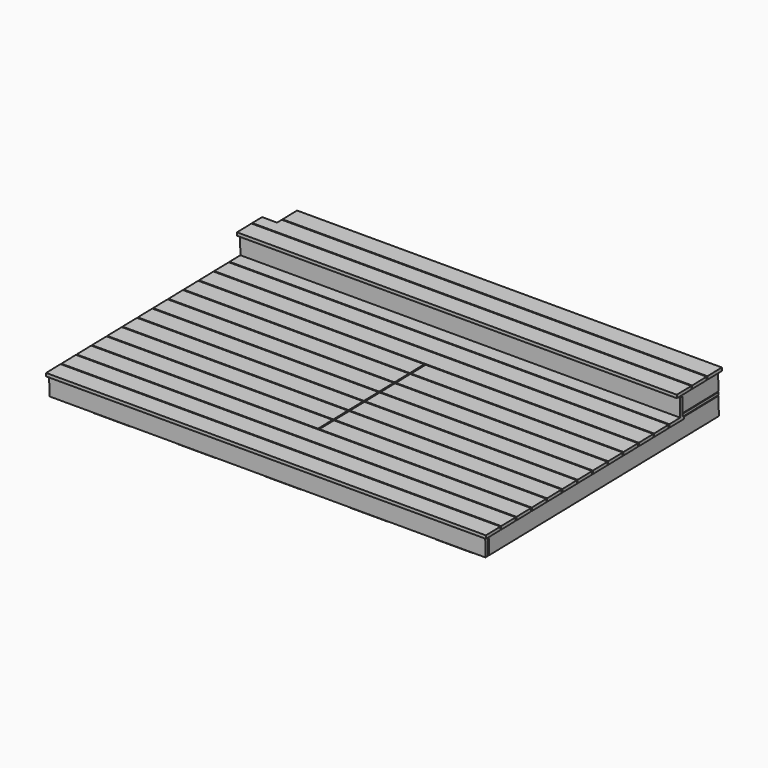
from build123d import *

# Parameters (mm, degrees)
F2_W      = 3400
F2_H      = 145
F3_DEPTH  = 25
F2_W_2    = 3520
F4_W      = 68
F4_H      = 396
F5_DEPTH  = 44
F6_W      = 3245
F6_H      = 68
F7_DEPTH  = 44
F8_W      = 68
F8_H      = 396
F9_DEPTH  = 44
F10_W     = 3245
F10_H     = 68
F11_DEPTH = 44
F12_W     = 3520
F12_H     = 145
F13_DEPTH = 25
F14_W     = 44
F14_H     = 2310
F15_DEPTH = 68
F14_H_2   = 839
F14_H_3   = 396
F16_W     = 3245
F16_H     = 44
F17_DEPTH = 68
F16_W_2   = 1699.5
F18_W     = 3520
F18_H     = 145
F19_DEPTH = 25
F18_W_2   = 1699.5
F20_W     = 44
F20_H     = 1263
F21_DEPTH = 68
F22_W     = 1501.5
F22_H     = 25
F23_DEPTH = 145
F22_W_2   = 25
F22_H_2   = 1015
F24_W     = 1809.5
F24_H     = 145
F25_DEPTH = 25
F26_W     = 68
F26_H     = 1015
F27_DEPTH = 44
F28_W     = 3490
F28_H     = 145
F29_DEPTH = 25
F31_DEPTH = 25
F32_W     = 300
F32_H     = 300
F33_DEPTH = 42
F32_H_2   = 150


with BuildPart() as f3:
    # F2 (on line) → F3 (new body)
    with BuildSketch(Plane(origin=(0, 0, 0), x_dir=(1, 0, 0), z_dir=(0, 0.0200699388, -0.9997985785))):
        with Locations((1820, 72.5)):
            Rectangle(F2_W, F2_H)
    extrude(amount=F3_DEPTH)


with BuildPart() as f3b:
    # F2 (on line) → F3, piece 2 (new body)
    with BuildSketch(Plane(origin=(0, 0, 0), x_dir=(1, 0, 0), z_dir=(0, 0.0200699388, -0.9997985785))):
        Polygon((120, 153), (3520, 153), (3520, 298), (0, 298), (0, 200), (120, 200), align=None)
    extrude(amount=F3_DEPTH)


with BuildPart() as f3c:
    # F2 (on line) → F3, piece 3 (new body)
    with BuildSketch(Plane(origin=(0, 0, 0), x_dir=(1, 0, 0), z_dir=(0, 0.0200699388, -0.9997985785))):
        with Locations((1760, 378.5)):
            Rectangle(F2_W_2, F2_H)
    extrude(amount=F3_DEPTH)


with BuildPart() as f5:
    # F4 (on face) → F5 (new body)
    with BuildSketch(Plane(origin=(0, 0.5017484696, -24.9949644623), x_dir=(1, 0, 0), z_dir=(0, 0.0200699388, -0.9997985785))):
        with Locations((3431, 198)):
            Rectangle(F4_W, F4_H)
    extrude(amount=F5_DEPTH)


with BuildPart() as f5b:
    # F4 (on face) → F5, piece 2 (new body)
    with BuildSketch(Plane(origin=(0, 0.5017484696, -24.9949644623), x_dir=(1, 0, 0), z_dir=(0, 0.0200699388, -0.9997985785))):
        with Locations((2901.5, 198)):
            Rectangle(F4_W, F4_H)
    extrude(amount=F5_DEPTH)


with BuildPart() as f5c:
    # F4 (on face) → F5, piece 3 (new body)
    with BuildSketch(Plane(origin=(0, 0.5017484696, -24.9949644623), x_dir=(1, 0, 0), z_dir=(0, 0.0200699388, -0.9997985785))):
        with Locations((2372, 198)):
            Rectangle(F4_W, F4_H)
    extrude(amount=F5_DEPTH)


with BuildPart() as f5d:
    # F4 (on face) → F5, piece 4 (new body)
    with BuildSketch(Plane(origin=(0, 0.5017484696, -24.9949644623), x_dir=(1, 0, 0), z_dir=(0, 0.0200699388, -0.9997985785))):
        with Locations((1842.5, 198)):
            Rectangle(F4_W, F4_H)
    extrude(amount=F5_DEPTH)


with BuildPart() as f5e:
    # F4 (on face) → F5, piece 5 (new body)
    with BuildSketch(Plane(origin=(0, 0.5017484696, -24.9949644623), x_dir=(1, 0, 0), z_dir=(0, 0.0200699388, -0.9997985785))):
        with Locations((1313, 198)):
            Rectangle(F4_W, F4_H)
    extrude(amount=F5_DEPTH)


with BuildPart() as f5f:
    # F4 (on face) → F5, piece 6 (new body)
    with BuildSketch(Plane(origin=(0, 0.5017484696, -24.9949644623), x_dir=(1, 0, 0), z_dir=(0, 0.0200699388, -0.9997985785))):
        with Locations((783.5, 198)):
            Rectangle(F4_W, F4_H)
    extrude(amount=F5_DEPTH)


with BuildPart() as f5g:
    # F4 (on face) → F5, piece 7 (new body)
    with BuildSketch(Plane(origin=(0, 0.5017484696, -24.9949644623), x_dir=(1, 0, 0), z_dir=(0, 0.0200699388, -0.9997985785))):
        with Locations((254, 198)):
            Rectangle(F4_W, F4_H)
    extrude(amount=F5_DEPTH)


with BuildPart() as f7:
    # F6 (on face) → F7 (new body)
    with BuildSketch(Plane(origin=(0, 1.3848257761, -68.986101916), x_dir=(1, 0, 0), z_dir=(0, 0.0200699388, -0.9997985785))):
        with Locations((1842.5, 64)):
            Rectangle(F6_W, F6_H)
    extrude(amount=F7_DEPTH)


with BuildPart() as f7b:
    # F6 (on face) → F7, piece 2 (new body)
    with BuildSketch(Plane(origin=(0, 1.3848257761, -68.986101916), x_dir=(1, 0, 0), z_dir=(0, 0.0200699388, -0.9997985785))):
        with Locations((1842.5, 342)):
            Rectangle(F6_W, F6_H)
    extrude(amount=F7_DEPTH)


with BuildPart() as f9:
    # F8 (on face) → F9 (new body)
    with BuildSketch(Plane(origin=(0, 2.2679030825, -112.9772393697), x_dir=(1, 0, 0), z_dir=(0, 0.0200699388, -0.9997985785))):
        with Locations((2901.5, 198)):
            Rectangle(F8_W, F8_H)
    extrude(amount=F9_DEPTH)


with BuildPart() as f9b:
    # F8 (on face) → F9, piece 2 (new body)
    with BuildSketch(Plane(origin=(0, 2.2679030825, -112.9772393697), x_dir=(1, 0, 0), z_dir=(0, 0.0200699388, -0.9997985785))):
        with Locations((2372, 198)):
            Rectangle(F8_W, F8_H)
    extrude(amount=F9_DEPTH)


with BuildPart() as f9c:
    # F8 (on face) → F9, piece 3 (new body)
    with BuildSketch(Plane(origin=(0, 2.2679030825, -112.9772393697), x_dir=(1, 0, 0), z_dir=(0, 0.0200699388, -0.9997985785))):
        with Locations((1842.5, 198)):
            Rectangle(F8_W, F8_H)
    extrude(amount=F9_DEPTH)


with BuildPart() as f9d:
    # F8 (on face) → F9, piece 4 (new body)
    with BuildSketch(Plane(origin=(0, 2.2679030825, -112.9772393697), x_dir=(1, 0, 0), z_dir=(0, 0.0200699388, -0.9997985785))):
        with Locations((1313, 198)):
            Rectangle(F8_W, F8_H)
    extrude(amount=F9_DEPTH)


with BuildPart() as f9e:
    # F8 (on face) → F9, piece 5 (new body)
    with BuildSketch(Plane(origin=(0, 2.2679030825, -112.9772393697), x_dir=(1, 0, 0), z_dir=(0, 0.0200699388, -0.9997985785))):
        with Locations((783.5, 198)):
            Rectangle(F8_W, F8_H)
    extrude(amount=F9_DEPTH)


with BuildPart() as f9f:
    # F8 (on face) → F9, piece 6 (new body)
    with BuildSketch(Plane(origin=(0, 2.2679030825, -112.9772393697), x_dir=(1, 0, 0), z_dir=(0, 0.0200699388, -0.9997985785))):
        with Locations((254, 198)):
            Rectangle(F8_W, F8_H)
    extrude(amount=F9_DEPTH)


with BuildPart() as f9g:
    # F8 (on face) → F9, piece 7 (new body)
    with BuildSketch(Plane(origin=(0, 2.2679030825, -112.9772393697), x_dir=(1, 0, 0), z_dir=(0, 0.0200699388, -0.9997985785))):
        with Locations((3431, 198)):
            Rectangle(F8_W, F8_H)
    extrude(amount=F9_DEPTH)


with BuildPart() as f11:
    # F10 (on face) → F11 (new body)
    with BuildSketch(Plane(origin=(0, 3.150980389, -156.9683768234), x_dir=(1, 0, 0), z_dir=(0, 0.0200699388, -0.9997985785))):
        with Locations((1842.5, 342)):
            Rectangle(F10_W, F10_H)
    extrude(amount=F11_DEPTH)


with BuildPart() as f11b:
    # F10 (on face) → F11, piece 2 (new body)
    with BuildSketch(Plane(origin=(0, 3.150980389, -156.9683768234), x_dir=(1, 0, 0), z_dir=(0, 0.0200699388, -0.9997985785))):
        with Locations((1842.5, 64)):
            Rectangle(F10_W, F10_H)
    extrude(amount=F11_DEPTH)


with BuildPart() as f13:
    # F12 (on face) → F13 (new body)
    with BuildSketch(Plane(origin=(0, -395.9202370833, -7.9476957583), x_dir=(1, 0, 0), z_dir=(0, -0.9997985785, -0.0200699388))):
        with Locations((1760, -107.5)):
            Rectangle(F12_W, F12_H)
    extrude(amount=F13_DEPTH)


with BuildPart() as f15:
    # F14 (on face) → F15 (new body)
    with BuildSketch(Plane(origin=(0, 4.0340576955, -200.9595142772), x_dir=(1, 0, 0), z_dir=(0, 0.0200699388, -0.9997985785))):
        with Locations((3443, 1155)):
            Rectangle(F14_W, F14_H)
    extrude(amount=F15_DEPTH)


with BuildPart() as f15b:
    # F14 (on face) → F15, piece 2 (new body)
    with BuildSketch(Plane(origin=(0, 4.0340576955, -200.9595142772), x_dir=(1, 0, 0), z_dir=(0, 0.0200699388, -0.9997985785))):
        with Locations((2909.5, 1155)):
            Rectangle(F14_W, F14_H)
    extrude(amount=F15_DEPTH)


with BuildPart() as f15c:
    # F14 (on face) → F15, piece 3 (new body)
    with BuildSketch(Plane(origin=(0, 4.0340576955, -200.9595142772), x_dir=(1, 0, 0), z_dir=(0, 0.0200699388, -0.9997985785))):
        with Locations((2376, 1155)):
            Rectangle(F14_W, F14_H)
    extrude(amount=F15_DEPTH)


with BuildPart() as f15d:
    # F14 (on face) → F15, piece 4 (new body)
    with BuildSketch(Plane(origin=(0, 4.0340576955, -200.9595142772), x_dir=(1, 0, 0), z_dir=(0, 0.0200699388, -0.9997985785))):
        with Locations((1842.5, 1155)):
            Rectangle(F14_W, F14_H)
    extrude(amount=F15_DEPTH)


with BuildPart() as f15e:
    # F14 (on face) → F15, piece 5 (new body)
    with BuildSketch(Plane(origin=(0, 4.0340576955, -200.9595142772), x_dir=(1, 0, 0), z_dir=(0, 0.0200699388, -0.9997985785))):
        with Locations((1309, 419.5)):
            Rectangle(F14_W, F14_H_2)
    extrude(amount=F15_DEPTH)


with BuildPart() as f15f:
    # F14 (on face) → F15, piece 6 (new body)
    with BuildSketch(Plane(origin=(0, 4.0340576955, -200.9595142772), x_dir=(1, 0, 0), z_dir=(0, 0.0200699388, -0.9997985785))):
        with Locations((1309, 2112)):
            Rectangle(F14_W, F14_H_3)
    extrude(amount=F15_DEPTH)


with BuildPart() as f15g:
    # F14 (on face) → F15, piece 7 (new body)
    with BuildSketch(Plane(origin=(0, 4.0340576955, -200.9595142772), x_dir=(1, 0, 0), z_dir=(0, 0.0200699388, -0.9997985785))):
        with Locations((775.5, 419.5)):
            Rectangle(F14_W, F14_H_2)
    extrude(amount=F15_DEPTH)


with BuildPart() as f15h:
    # F14 (on face) → F15, piece 8 (new body)
    with BuildSketch(Plane(origin=(0, 4.0340576955, -200.9595142772), x_dir=(1, 0, 0), z_dir=(0, 0.0200699388, -0.9997985785))):
        with Locations((775.5, 2112)):
            Rectangle(F14_W, F14_H_3)
    extrude(amount=F15_DEPTH)


with BuildPart() as f15i:
    # F14 (on face) → F15, piece 9 (new body)
    with BuildSketch(Plane(origin=(0, 4.0340576955, -200.9595142772), x_dir=(1, 0, 0), z_dir=(0, 0.0200699388, -0.9997985785))):
        with Locations((242, 1155)):
            Rectangle(F14_W, F14_H)
    extrude(amount=F15_DEPTH)


with BuildPart() as f17:
    # F16 (on face) → F17 (new body)
    with BuildSketch(Plane(origin=(0, 5.3988135328, -268.9458176147), x_dir=(1, 0, 0), z_dir=(0, 0.0200699388, -0.9997985785))):
        with Locations((1842.5, 2268)):
            Rectangle(F16_W, F16_H)
    extrude(amount=F17_DEPTH)


with BuildPart() as f17b:
    # F16 (on face) → F17, piece 2 (new body)
    with BuildSketch(Plane(origin=(0, 5.3988135328, -268.9458176147), x_dir=(1, 0, 0), z_dir=(0, 0.0200699388, -0.9997985785))):
        with Locations((1842.5, 1956)):
            Rectangle(F16_W, F16_H)
    extrude(amount=F17_DEPTH)


with BuildPart() as f17c:
    # F16 (on face) → F17, piece 3 (new body)
    with BuildSketch(Plane(origin=(0, 5.3988135328, -268.9458176147), x_dir=(1, 0, 0), z_dir=(0, 0.0200699388, -0.9997985785))):
        with Locations((1842.5, 797)):
            Rectangle(F16_W, F16_H)
    extrude(amount=F17_DEPTH)


with BuildPart() as f17d:
    # F16 (on face) → F17, piece 4 (new body)
    with BuildSketch(Plane(origin=(0, 5.3988135328, -268.9458176147), x_dir=(1, 0, 0), z_dir=(0, 0.0200699388, -0.9997985785))):
        with Locations((1842.5, 102)):
            Rectangle(F16_W, F16_H)
    extrude(amount=F17_DEPTH)


with BuildPart() as f17e:
    # F16 (on face) → F17, piece 5 (new body)
    with BuildSketch(Plane(origin=(0, 5.3988135328, -268.9458176147), x_dir=(1, 0, 0), z_dir=(0, 0.0200699388, -0.9997985785))):
        with Locations((2615.25, 1376.5)):
            Rectangle(F16_W_2, F16_H)
    extrude(amount=F17_DEPTH)


with BuildPart() as f17f:
    # F16 (on face) → F17, piece 6 (new body)
    with BuildSketch(Plane(origin=(0, 5.3988135328, -268.9458176147), x_dir=(1, 0, 0), z_dir=(0, 0.0200699388, -0.9997985785))):
        with Locations((1842.5, 449.5)):
            Rectangle(F16_W, F16_H)
    extrude(amount=F17_DEPTH)


with BuildPart() as f19:
    # F18 (on face) → F19 (new body)
    with BuildSketch(Plane(origin=(0, 4.0340576955, -200.9595142772), x_dir=(1, 0, 0), z_dir=(0, -0.0200699388, 0.9997985785))):
        with Locations((1760, -456.5)):
            Rectangle(F18_W, F18_H)
    extrude(amount=F19_DEPTH)


with BuildPart() as f19b:
    # F18 (on face) → F19, piece 2 (new body)
    with BuildSketch(Plane(origin=(0, 4.0340576955, -200.9595142772), x_dir=(1, 0, 0), z_dir=(0, -0.0200699388, 0.9997985785))):
        with Locations((1760, -609.5)):
            Rectangle(F18_W, F18_H)
    extrude(amount=F19_DEPTH)


with BuildPart() as f19c:
    # F18 (on face) → F19, piece 3 (new body)
    with BuildSketch(Plane(origin=(0, 4.0340576955, -200.9595142772), x_dir=(1, 0, 0), z_dir=(0, -0.0200699388, 0.9997985785))):
        with Locations((1760, -762.5)):
            Rectangle(F18_W, F18_H)
    extrude(amount=F19_DEPTH)


with BuildPart() as f19d:
    # F18 (on face) → F19, piece 4 (new body)
    with BuildSketch(Plane(origin=(0, 4.0340576955, -200.9595142772), x_dir=(1, 0, 0), z_dir=(0, -0.0200699388, 0.9997985785))):
        with Locations((2670.25, -915.5)):
            Rectangle(F18_W_2, F18_H)
    extrude(amount=F19_DEPTH)


with BuildPart() as f19e:
    # F18 (on face) → F19, piece 5 (new body)
    with BuildSketch(Plane(origin=(0, 4.0340576955, -200.9595142772), x_dir=(1, 0, 0), z_dir=(0, -0.0200699388, 0.9997985785))):
        with Locations((2670.25, -1068.5)):
            Rectangle(F18_W_2, F18_H)
    extrude(amount=F19_DEPTH)


with BuildPart() as f19f:
    # F18 (on face) → F19, piece 6 (new body)
    with BuildSketch(Plane(origin=(0, 4.0340576955, -200.9595142772), x_dir=(1, 0, 0), z_dir=(0, -0.0200699388, 0.9997985785))):
        with Locations((2670.25, -1221.5)):
            Rectangle(F18_W_2, F18_H)
    extrude(amount=F19_DEPTH)


with BuildPart() as f19g:
    # F18 (on face) → F19, piece 7 (new body)
    with BuildSketch(Plane(origin=(0, 4.0340576955, -200.9595142772), x_dir=(1, 0, 0), z_dir=(0, -0.0200699388, 0.9997985785))):
        with Locations((2670.25, -1374.5)):
            Rectangle(F18_W_2, F18_H)
    extrude(amount=F19_DEPTH)


with BuildPart() as f19h:
    # F18 (on face) → F19, piece 8 (new body)
    with BuildSketch(Plane(origin=(0, 4.0340576955, -200.9595142772), x_dir=(1, 0, 0), z_dir=(0, -0.0200699388, 0.9997985785))):
        with Locations((2670.25, -1527.5)):
            Rectangle(F18_W_2, F18_H)
    extrude(amount=F19_DEPTH)


with BuildPart() as f19i:
    # F18 (on face) → F19, piece 9 (new body)
    with BuildSketch(Plane(origin=(0, 4.0340576955, -200.9595142772), x_dir=(1, 0, 0), z_dir=(0, -0.0200699388, 0.9997985785))):
        with Locations((2670.25, -1680.5)):
            Rectangle(F18_W_2, F18_H)
    extrude(amount=F19_DEPTH)


with BuildPart() as f19j:
    # F18 (on face) → F19, piece 10 (new body)
    with BuildSketch(Plane(origin=(0, 4.0340576955, -200.9595142772), x_dir=(1, 0, 0), z_dir=(0, -0.0200699388, 0.9997985785))):
        with Locations((2670.25, -1833.5)):
            Rectangle(F18_W_2, F18_H)
    extrude(amount=F19_DEPTH)


with BuildPart() as f19k:
    # F18 (on face) → F19, piece 11 (new body)
    with BuildSketch(Plane(origin=(0, 4.0340576955, -200.9595142772), x_dir=(1, 0, 0), z_dir=(0, -0.0200699388, 0.9997985785))):
        with Locations((1760, -1986.5)):
            Rectangle(F18_W, F18_H)
    extrude(amount=F19_DEPTH)


with BuildPart() as f19l:
    # F18 (on face) → F19, piece 12 (new body)
    with BuildSketch(Plane(origin=(0, 4.0340576955, -200.9595142772), x_dir=(1, 0, 0), z_dir=(0, -0.0200699388, 0.9997985785))):
        with Locations((1760, -2139.5)):
            Rectangle(F18_W, F18_H)
    extrude(amount=F19_DEPTH)


with BuildPart() as f19m:
    # F18 (on face) → F19, piece 13 (new body)
    with BuildSketch(Plane(origin=(0, 4.0340576955, -200.9595142772), x_dir=(1, 0, 0), z_dir=(0, -0.0200699388, 0.9997985785))):
        with Locations((1760, -2292.5)):
            Rectangle(F18_W, F18_H)
    extrude(amount=F19_DEPTH)


with BuildPart() as f21:
    # F20 (on face) → F21 (new body)
    with BuildSketch(Plane(origin=(0, 5.3988135328, -268.9458176147), x_dir=(1, 0, 0), z_dir=(0, -0.0200699388, 0.9997985785))):
        with Locations((1787.5, -1376.5)):
            Rectangle(F20_W, F20_H)
    extrude(amount=F21_DEPTH)


with BuildPart() as f23:
    # F22 (on face) → F23 (new body)
    with BuildSketch(Plane(origin=(0, 4.0340576955, -200.9595142772), x_dir=(1, 0, 0), z_dir=(0, -0.0200699388, 0.9997985785))):
        with Locations((1014.75, -851.5)):
            Rectangle(F22_W, F22_H)
    extrude(amount=-F23_DEPTH)


with BuildPart() as f23b:
    # F22 (on face) → F23, piece 2 (new body)
    with BuildSketch(Plane(origin=(0, 4.0340576955, -200.9595142772), x_dir=(1, 0, 0), z_dir=(0, -0.0200699388, 0.9997985785))):
        with Locations((276.5, -1376.5)):
            Rectangle(F22_W_2, F22_H_2)
    extrude(amount=-F23_DEPTH)


with BuildPart() as f23c:
    # F22 (on face) → F23, piece 3 (new body)
    with BuildSketch(Plane(origin=(0, 4.0340576955, -200.9595142772), x_dir=(1, 0, 0), z_dir=(0, -0.0200699388, 0.9997985785))):
        with Locations((1014.75, -1901.5)):
            Rectangle(F22_W, F22_H)
    extrude(amount=-F23_DEPTH)


with BuildPart() as f23d:
    # F22 (on face) → F23, piece 4 (new body)
    with BuildSketch(Plane(origin=(0, 4.0340576955, -200.9595142772), x_dir=(1, 0, 0), z_dir=(0, -0.0200699388, 0.9997985785))):
        with Locations((1753, -1376.5)):
            Rectangle(F22_W_2, F22_H_2)
    extrude(amount=-F23_DEPTH)


with BuildPart() as f25:
    # F24 (on face) → F25 (new body)
    with BuildSketch(Plane(origin=(0, 4.0340576955, -200.9595142772), x_dir=(1, 0, 0), z_dir=(0, -0.0200699388, 0.9997985785))):
        with Locations((904.75, -915.5)):
            Rectangle(F24_W, F24_H)
    extrude(amount=F25_DEPTH)


with BuildPart() as f25b:
    # F24 (on face) → F25, piece 2 (new body)
    with BuildSketch(Plane(origin=(0, 4.0340576955, -200.9595142772), x_dir=(1, 0, 0), z_dir=(0, -0.0200699388, 0.9997985785))):
        with Locations((904.75, -1068.5)):
            Rectangle(F24_W, F24_H)
    extrude(amount=F25_DEPTH)


with BuildPart() as f25c:
    # F24 (on face) → F25, piece 3 (new body)
    with BuildSketch(Plane(origin=(0, 4.0340576955, -200.9595142772), x_dir=(1, 0, 0), z_dir=(0, -0.0200699388, 0.9997985785))):
        with Locations((904.75, -1221.5)):
            Rectangle(F24_W, F24_H)
    extrude(amount=F25_DEPTH)


with BuildPart() as f25d:
    # F24 (on face) → F25, piece 4 (new body)
    with BuildSketch(Plane(origin=(0, 4.0340576955, -200.9595142772), x_dir=(1, 0, 0), z_dir=(0, -0.0200699388, 0.9997985785))):
        with Locations((904.75, -1374.5)):
            Rectangle(F24_W, F24_H)
    extrude(amount=F25_DEPTH)


with BuildPart() as f25e:
    # F24 (on face) → F25, piece 5 (new body)
    with BuildSketch(Plane(origin=(0, 4.0340576955, -200.9595142772), x_dir=(1, 0, 0), z_dir=(0, -0.0200699388, 0.9997985785))):
        with Locations((904.75, -1527.5)):
            Rectangle(F24_W, F24_H)
    extrude(amount=F25_DEPTH)


with BuildPart() as f25f:
    # F24 (on face) → F25, piece 6 (new body)
    with BuildSketch(Plane(origin=(0, 4.0340576955, -200.9595142772), x_dir=(1, 0, 0), z_dir=(0, -0.0200699388, 0.9997985785))):
        with Locations((904.75, -1680.5)):
            Rectangle(F24_W, F24_H)
    extrude(amount=F25_DEPTH)


with BuildPart() as f25g:
    # F24 (on face) → F25, piece 7 (new body)
    with BuildSketch(Plane(origin=(0, 4.0340576955, -200.9595142772), x_dir=(1, 0, 0), z_dir=(0, -0.0200699388, 0.9997985785))):
        with Locations((904.75, -1833.5)):
            Rectangle(F24_W, F24_H)
    extrude(amount=F25_DEPTH)


with BuildPart() as f27:
    # F26 (on face) → F27 (new body)
    with BuildSketch(Plane(origin=(0, 4.0340576955, -200.9595142772), x_dir=(1, 0, 0), z_dir=(0, 0.0200699388, -0.9997985785))):
        with Locations((328, 1376.5)):
            Rectangle(F26_W, F26_H)
    extrude(amount=F27_DEPTH)


with BuildPart() as f27b:
    # F26 (on face) → F27, piece 2 (new body)
    with BuildSketch(Plane(origin=(0, 4.0340576955, -200.9595142772), x_dir=(1, 0, 0), z_dir=(0, 0.0200699388, -0.9997985785))):
        with Locations((1014.75, 1376.5)):
            Rectangle(F26_W, F26_H)
    extrude(amount=F27_DEPTH)


with BuildPart() as f27c:
    # F26 (on face) → F27, piece 3 (new body)
    with BuildSketch(Plane(origin=(0, 4.0340576955, -200.9595142772), x_dir=(1, 0, 0), z_dir=(0, 0.0200699388, -0.9997985785))):
        with Locations((1701.5, 1376.5)):
            Rectangle(F26_W, F26_H)
    extrude(amount=F27_DEPTH)


with BuildPart() as f29:
    # F28 (on face) → F29 (new body)
    with BuildSketch(Plane(origin=(0, -2309.5347163195, -46.3615585901), x_dir=(1, 0, 0), z_dir=(0, -0.9997985785, -0.0200699388))):
        with Locations((1745, -283.5)):
            Rectangle(F28_W, F28_H)
    extrude(amount=F29_DEPTH)


with BuildPart() as f31:
    # F30 (on face) → F31 (new body)
    with BuildSketch(Plane.YZ.offset(3465)):
        Polygon((-2295.3019734513, -257.1183592643), (-2292.3918323276, -402.0891531459), (7.144898207, -355.9282939436), (4.2347570833, -210.9575000621), align=None)
    extrude(amount=F31_DEPTH)


with BuildPart() as f31b:
    # F30 (on face) → F31, piece 2 (new body)
    with BuildSketch(Plane.YZ.offset(3465)):
        Polygon((-385.219803441, -42.7399466177), (-382.3096623174, -187.7107404993), (2.9101411236, -179.9778450545), (0, -35.007051173), align=None)
    extrude(amount=F31_DEPTH)


with BuildPart() as f31c:
    # F30 (on face) → F31, piece 3 (new body)
    with BuildSketch(Plane.YZ.offset(3465)):
        Polygon((3.0104908175, -184.976837947), (-382.2093126235, -192.7097333917), (-381.787843909, -213.7055035401), (3.431959532, -205.9726080953), align=None)
    extrude(amount=F31_DEPTH)


with BuildPart() as f33:
    # F32 (on face) → F33 (new body)
    with BuildSketch(Plane(origin=(0, 6.7635693701, -336.9321209522), x_dir=(1, 0, 0), z_dir=(0, 0.0200699388, -0.9997985785))):
        with Locations((470, 2155)):
            Rectangle(F32_W, F32_H)
    extrude(amount=F33_DEPTH)


with BuildPart() as f33b:
    # F32 (on face) → F33, piece 2 (new body)
    with BuildSketch(Plane(origin=(0, 6.7635693701, -336.9321209522), x_dir=(1, 0, 0), z_dir=(0, 0.0200699388, -0.9997985785))):
        with Locations((2014.5, 1348.5)):
            Rectangle(F32_W, F32_H)
    extrude(amount=F33_DEPTH)


with BuildPart() as f33c:
    # F32 (on face) → F33, piece 3 (new body)
    with BuildSketch(Plane(origin=(0, 6.7635693701, -336.9321209522), x_dir=(1, 0, 0), z_dir=(0, 0.0200699388, -0.9997985785))):
        with Locations((3215, 1348.5)):
            Rectangle(F32_W, F32_H)
    extrude(amount=F33_DEPTH)


with BuildPart() as f33d:
    # F32 (on face) → F33, piece 4 (new body)
    with BuildSketch(Plane(origin=(0, 6.7635693701, -336.9321209522), x_dir=(1, 0, 0), z_dir=(0, 0.0200699388, -0.9997985785))):
        with Locations((470, 180)):
            Rectangle(F32_W, F32_H)
    extrude(amount=F33_DEPTH)


with BuildPart() as f33e:
    # F32 (on face) → F33, piece 5 (new body)
    with BuildSketch(Plane(origin=(0, 6.7635693701, -336.9321209522), x_dir=(1, 0, 0), z_dir=(0, 0.0200699388, -0.9997985785))):
        with Locations((2614.75, 1348.5)):
            Rectangle(F32_W, F32_H)
    extrude(amount=F33_DEPTH)


with BuildPart() as f33f:
    # F32 (on face) → F33, piece 6 (new body)
    with BuildSketch(Plane(origin=(0, 6.7635693701, -336.9321209522), x_dir=(1, 0, 0), z_dir=(0, 0.0200699388, -0.9997985785))):
        with Locations((470, 684)):
            Rectangle(F32_W, F32_H)
    extrude(amount=F33_DEPTH)


with BuildPart() as f33g:
    # F32 (on face) → F33, piece 7 (new body)
    with BuildSketch(Plane(origin=(0, 6.7635693701, -336.9321209522), x_dir=(1, 0, 0), z_dir=(0, 0.0200699388, -0.9997985785))):
        with Locations((1156.25, 684)):
            Rectangle(F32_W, F32_H)
    extrude(amount=F33_DEPTH)


with BuildPart() as f33h:
    # F32 (on face) → F33, piece 8 (new body)
    with BuildSketch(Plane(origin=(0, 6.7635693701, -336.9321209522), x_dir=(1, 0, 0), z_dir=(0, 0.0200699388, -0.9997985785))):
        with Locations((1156.25, 180)):
            Rectangle(F32_W, F32_H)
    extrude(amount=F33_DEPTH)


with BuildPart() as f33i:
    # F32 (on face) → F33, piece 9 (new body)
    with BuildSketch(Plane(origin=(0, 6.7635693701, -336.9321209522), x_dir=(1, 0, 0), z_dir=(0, 0.0200699388, -0.9997985785))):
        with Locations((1842.5, 684)):
            Rectangle(F32_W, F32_H)
    extrude(amount=F33_DEPTH)


with BuildPart() as f33j:
    # F32 (on face) → F33, piece 10 (new body)
    with BuildSketch(Plane(origin=(0, 6.7635693701, -336.9321209522), x_dir=(1, 0, 0), z_dir=(0, 0.0200699388, -0.9997985785))):
        with Locations((1842.5, 180)):
            Rectangle(F32_W, F32_H)
    extrude(amount=F33_DEPTH)


with BuildPart() as f33k:
    # F32 (on face) → F33, piece 11 (new body)
    with BuildSketch(Plane(origin=(0, 6.7635693701, -336.9321209522), x_dir=(1, 0, 0), z_dir=(0, 0.0200699388, -0.9997985785))):
        with Locations((2528.75, 684)):
            Rectangle(F32_W, F32_H)
    extrude(amount=F33_DEPTH)


with BuildPart() as f33l:
    # F32 (on face) → F33, piece 12 (new body)
    with BuildSketch(Plane(origin=(0, 6.7635693701, -336.9321209522), x_dir=(1, 0, 0), z_dir=(0, 0.0200699388, -0.9997985785))):
        with Locations((2528.75, 180)):
            Rectangle(F32_W, F32_H)
    extrude(amount=F33_DEPTH)


with BuildPart() as f33m:
    # F32 (on face) → F33, piece 13 (new body)
    with BuildSketch(Plane(origin=(0, 6.7635693701, -336.9321209522), x_dir=(1, 0, 0), z_dir=(0, 0.0200699388, -0.9997985785))):
        with Locations((3215, 684)):
            Rectangle(F32_W, F32_H)
    extrude(amount=F33_DEPTH)


with BuildPart() as f33n:
    # F32 (on face) → F33, piece 14 (new body)
    with BuildSketch(Plane(origin=(0, 6.7635693701, -336.9321209522), x_dir=(1, 0, 0), z_dir=(0, 0.0200699388, -0.9997985785))):
        with Locations((3215, 180)):
            Rectangle(F32_W, F32_H)
    extrude(amount=F33_DEPTH)


with BuildPart() as f33o:
    # F32 (on face) → F33, piece 15 (new body)
    with BuildSketch(Plane(origin=(0, 6.7635693701, -336.9321209522), x_dir=(1, 0, 0), z_dir=(0, 0.0200699388, -0.9997985785))):
        with Locations((470, 1925)):
            Rectangle(F32_W, F32_H_2)
    extrude(amount=F33_DEPTH)


with BuildPart() as f33p:
    # F32 (on face) → F33, piece 16 (new body)
    with BuildSketch(Plane(origin=(0, 6.7635693701, -336.9321209522), x_dir=(1, 0, 0), z_dir=(0, 0.0200699388, -0.9997985785))):
        with Locations((1156.25, 1925)):
            Rectangle(F32_W, F32_H_2)
    extrude(amount=F33_DEPTH)


with BuildPart() as f33q:
    # F32 (on face) → F33, piece 17 (new body)
    with BuildSketch(Plane(origin=(0, 6.7635693701, -336.9321209522), x_dir=(1, 0, 0), z_dir=(0, 0.0200699388, -0.9997985785))):
        with Locations((1156.25, 2155)):
            Rectangle(F32_W, F32_H)
    extrude(amount=F33_DEPTH)


with BuildPart() as f33r:
    # F32 (on face) → F33, piece 18 (new body)
    with BuildSketch(Plane(origin=(0, 6.7635693701, -336.9321209522), x_dir=(1, 0, 0), z_dir=(0, 0.0200699388, -0.9997985785))):
        with Locations((1842.5, 1925)):
            Rectangle(F32_W, F32_H_2)
    extrude(amount=F33_DEPTH)


with BuildPart() as f33s:
    # F32 (on face) → F33, piece 19 (new body)
    with BuildSketch(Plane(origin=(0, 6.7635693701, -336.9321209522), x_dir=(1, 0, 0), z_dir=(0, 0.0200699388, -0.9997985785))):
        with Locations((1842.5, 2155)):
            Rectangle(F32_W, F32_H)
    extrude(amount=F33_DEPTH)


with BuildPart() as f33t:
    # F32 (on face) → F33, piece 20 (new body)
    with BuildSketch(Plane(origin=(0, 6.7635693701, -336.9321209522), x_dir=(1, 0, 0), z_dir=(0, 0.0200699388, -0.9997985785))):
        with Locations((2528.75, 1925)):
            Rectangle(F32_W, F32_H_2)
    extrude(amount=F33_DEPTH)


with BuildPart() as f33u:
    # F32 (on face) → F33, piece 21 (new body)
    with BuildSketch(Plane(origin=(0, 6.7635693701, -336.9321209522), x_dir=(1, 0, 0), z_dir=(0, 0.0200699388, -0.9997985785))):
        with Locations((2528.75, 2155)):
            Rectangle(F32_W, F32_H)
    extrude(amount=F33_DEPTH)


with BuildPart() as f33v:
    # F32 (on face) → F33, piece 22 (new body)
    with BuildSketch(Plane(origin=(0, 6.7635693701, -336.9321209522), x_dir=(1, 0, 0), z_dir=(0, 0.0200699388, -0.9997985785))):
        with Locations((3215, 1925)):
            Rectangle(F32_W, F32_H_2)
    extrude(amount=F33_DEPTH)


with BuildPart() as f33w:
    # F32 (on face) → F33, piece 23 (new body)
    with BuildSketch(Plane(origin=(0, 6.7635693701, -336.9321209522), x_dir=(1, 0, 0), z_dir=(0, 0.0200699388, -0.9997985785))):
        with Locations((3215, 2155)):
            Rectangle(F32_W, F32_H)
    extrude(amount=F33_DEPTH)


with BuildPart() as f33x:
    # F32 (on face) → F33, piece 24 (new body)
    with BuildSketch(Plane(origin=(0, 6.7635693701, -336.9321209522), x_dir=(1, 0, 0), z_dir=(0, 0.0200699388, -0.9997985785))):
        with Locations((470, 439)):
            Rectangle(F32_W, F32_H_2)
    extrude(amount=F33_DEPTH)


with BuildPart() as f33y:
    # F32 (on face) → F33, piece 25 (new body)
    with BuildSketch(Plane(origin=(0, 6.7635693701, -336.9321209522), x_dir=(1, 0, 0), z_dir=(0, 0.0200699388, -0.9997985785))):
        with Locations((1156.25, 439)):
            Rectangle(F32_W, F32_H_2)
    extrude(amount=F33_DEPTH)


with BuildPart() as f33z:
    # F32 (on face) → F33, piece 26 (new body)
    with BuildSketch(Plane(origin=(0, 6.7635693701, -336.9321209522), x_dir=(1, 0, 0), z_dir=(0, 0.0200699388, -0.9997985785))):
        with Locations((1842.5, 439)):
            Rectangle(F32_W, F32_H_2)
    extrude(amount=F33_DEPTH)


with BuildPart() as f33ba:
    # F32 (on face) → F33, piece 27 (new body)
    with BuildSketch(Plane(origin=(0, 6.7635693701, -336.9321209522), x_dir=(1, 0, 0), z_dir=(0, 0.0200699388, -0.9997985785))):
        with Locations((2528.75, 439)):
            Rectangle(F32_W, F32_H_2)
    extrude(amount=F33_DEPTH)


with BuildPart() as f33bb:
    # F32 (on face) → F33, piece 28 (new body)
    with BuildSketch(Plane(origin=(0, 6.7635693701, -336.9321209522), x_dir=(1, 0, 0), z_dir=(0, 0.0200699388, -0.9997985785))):
        with Locations((3215, 439)):
            Rectangle(F32_W, F32_H_2)
    extrude(amount=F33_DEPTH)


solid = Compound([f3.part, f3b.part, f3c.part, f5.part, f5b.part, f5c.part, f5d.part, f5e.part, f5f.part, f5g.part, f7.part, f7b.part, f9.part, f9b.part, f9c.part, f9d.part, f9e.part, f9f.part, f9g.part, f11.part, f11b.part, f13.part, f15.part, f15b.part, f15c.part, f15d.part, f15e.part, f15f.part, f15g.part, f15h.part, f15i.part, f17.part, f17b.part, f17c.part, f17d.part, f17e.part, f17f.part, f19.part, f19b.part, f19c.part, f19d.part, f19e.part, f19f.part, f19g.part, f19h.part, f19i.part, f19j.part, f19k.part, f19l.part, f19m.part, f21.part, f23.part, f23b.part, f23c.part, f23d.part, f25.part, f25b.part, f25c.part, f25d.part, f25e.part, f25f.part, f25g.part, f27.part, f27b.part, f27c.part, f29.part, f31.part, f31b.part, f31c.part, f33.part, f33b.part, f33c.part, f33d.part, f33e.part, f33f.part, f33g.part, f33h.part, f33i.part, f33j.part, f33k.part, f33l.part, f33m.part, f33n.part, f33o.part, f33p.part, f33q.part, f33r.part, f33s.part, f33t.part, f33u.part, f33v.part, f33w.part, f33x.part, f33y.part, f33z.part, f33ba.part, f33bb.part])
